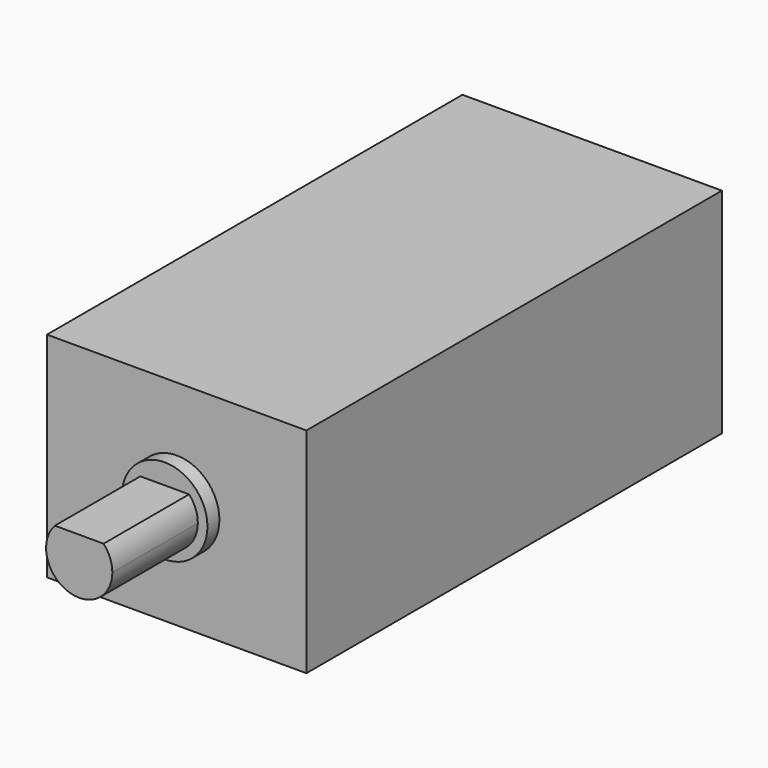
from build123d import *

# Parameters (mm, degrees)
F0_W     = 12.14
F0_H     = 24.3
F1_DEPTH = 10
F2_R     = 2.5
F3_DEPTH = 1.1
F4_R     = 2
F5_DEPTH = 0.7
F7_DEPTH = 5


with BuildPart() as f1:
    # F0 (on Top) → F1 (new body)
    with BuildSketch(Plane.XY):
        with Locations((-49.791635, 32.747907)):
            Rectangle(F0_W, F0_H)
    extrude(amount=F1_DEPTH)

    # F2 (on face) → F3 (join)
    with BuildSketch(Plane(origin=(0, 44.897907, 0), x_dir=(-1, 0, 0), z_dir=(0, 1, 0))):
        with Locations((49.791635, 5)):
            Circle(F2_R)
    extrude(amount=F3_DEPTH)

    # F4 (on face) → F5 (join)
    with BuildSketch(Plane.XZ.offset(-20.597907)):
        with Locations((-49.791635, 5)):
            Circle(F4_R)
    extrude(amount=F5_DEPTH)

    # F6 (on face) → F7 (join)
    with BuildSketch(Plane.XZ.offset(-19.897907)):
        with BuildLine():
            ThreePointArc((-50.931811, 6.05), (-50.355208, 3.556087), (-48.241635, 5))
            ThreePointArc((-48.241635, 5), (-48.347722, 5.563573), (-48.65146, 6.05))
            Line((-48.65146, 6.05), (-50.931811, 6.05))
        make_face()
    extrude(amount=F7_DEPTH)


with BuildPart() as f8_1:
    # F8: copy of F1
    add(f1.part.moved(Location((20, 0, 0))))


solid = f1.part
